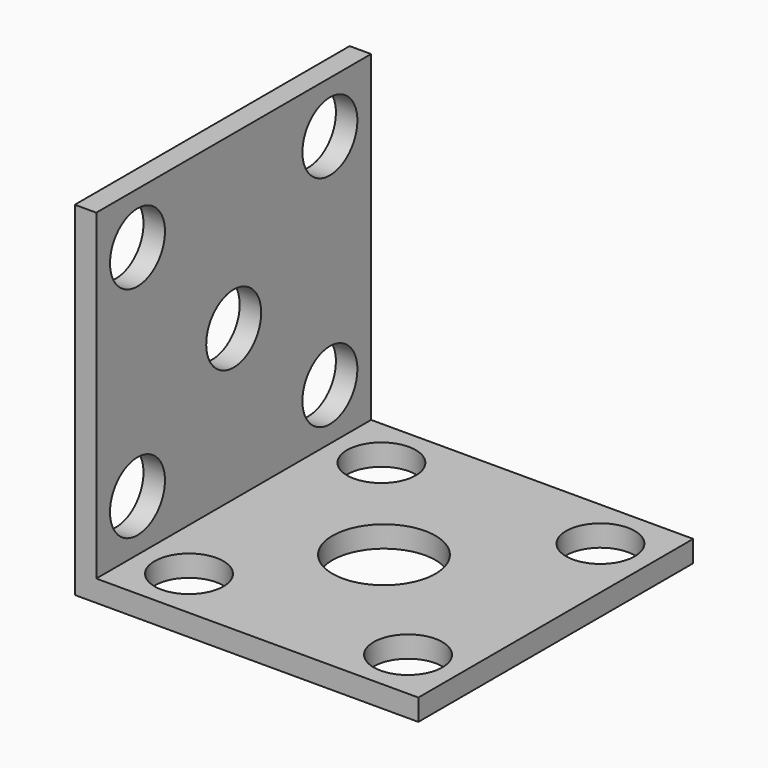
from build123d import *

# Parameters (mm, degrees)
PAD_DEPTH       = 40
SKETCH001_R     = 4
POCKET_DEPTH    = 2.501
SKETCH002_R     = 4
SKETCH002_R_2   = 6
POCKET001_DEPTH = 2.501


with BuildPart() as part:
    # Sketch → Pad (new body)
    with BuildSketch(Plane.XZ):
        Polygon((0, 0), (0, 40), (2.5, 40), (2.5, 2.5), (40, 2.5), (40, 0), align=None)
    extrude(amount=PAD_DEPTH)

    # Sketch001 (on Face3 of Pad) → Pocket (cut, through all)
    with BuildSketch(Plane(origin=(2.5, 0, 0), x_dir=(0, 0, 1), z_dir=(1, 0, 0))):
        with Locations((8.5, 34)):
            Circle(SKETCH001_R)
        with Locations((34, 34)):
            Circle(SKETCH001_R)
        with Locations((8.5, 6)):
            Circle(SKETCH001_R)
        with Locations((34, 6)):
            Circle(SKETCH001_R)
        with Locations((20, 20)):
            Circle(SKETCH001_R)
    extrude(amount=-POCKET_DEPTH, mode=Mode.SUBTRACT)

    # Sketch002 (on Face13 of Pocket) → Pocket001 (cut, through all)
    with BuildSketch(Plane(origin=(0, 0, 2.5), x_dir=(-1, 0, 0), z_dir=(0, 0, 1))):
        with Locations((-8.5, 6)):
            Circle(SKETCH002_R)
        with Locations((-34, 6)):
            Circle(SKETCH002_R)
        with Locations((-8.5, 34)):
            Circle(SKETCH002_R)
        with Locations((-34, 34)):
            Circle(SKETCH002_R)
        with Locations((-20, 20)):
            Circle(SKETCH002_R_2)
    extrude(amount=-POCKET001_DEPTH, mode=Mode.SUBTRACT)


solid = part.part
